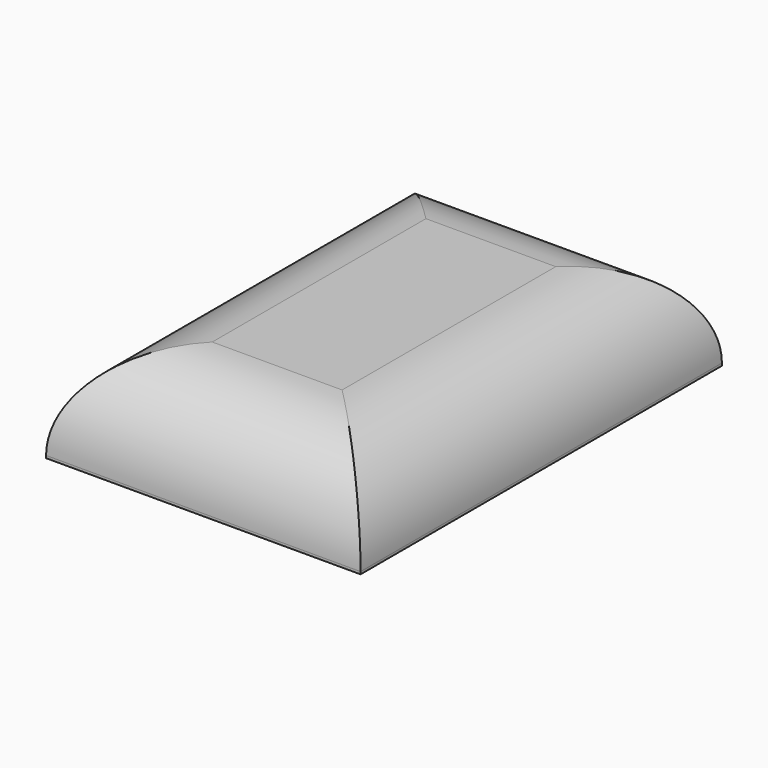
from build123d import *

# Parameters (mm, degrees)
F0_W     = 84.283553
F0_H     = 121.059442
F1_DEPTH = 25.4
F2_R     = 24.740136
F3_T     = -2.54


with BuildPart() as f1:
    # F0 (on Top) → F1 (new body)
    with BuildSketch(Plane.XY):
        with Locations((42.141776, 37.50595)):
            Rectangle(F0_W, F0_H)
    extrude(amount=F1_DEPTH)

    # F2
    f2_edges = [f1.edges().sort_by_distance(p)[0] for p in [
        (0, 37.50595, 25.4),
        (42.141777, -23.023771, 25.4),
        (84.283553, 37.50595, 25.4),
        (42.141777, 98.035671, 25.4),
    ]]
    fillet(f2_edges, radius=F2_R)

    # F3
    f3_openings = [f1.faces().sort_by_distance(p)[0] for p in [
        (42.141777, 37.50595, 0),
    ]]
    offset(amount=F3_T, openings=f3_openings)


solid = f1.part
